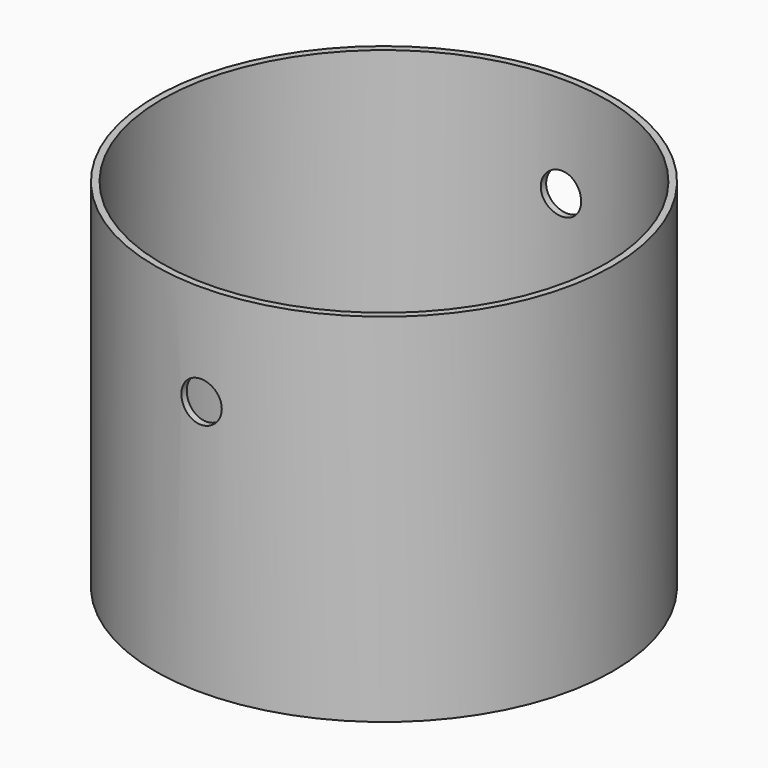
from build123d import *

# Parameters (mm, degrees)
F0_R     = 215.9
F1_DEPTH = 336.55
F2_T     = -6.35
F3_R     = 19.05
F4_DEPTH = 254


with BuildPart() as f1:
    # F0 (on Top) → F1 (new body)
    with BuildSketch(Plane.XY):
        Circle(F0_R)
    extrude(amount=F1_DEPTH)

    # F2
    f2_openings = [f1.faces().sort_by_distance(p)[0] for p in [
        (0, 0, 336.55),
        (0, 0, 0),
    ]]
    offset(amount=F2_T, openings=f2_openings)

    # F3 (on Front) → F4 (cut, symmetric)
    with BuildSketch(Plane.XZ):
        with Locations((0, 241.3)):
            Circle(F3_R)
    extrude(amount=F4_DEPTH, both=True, mode=Mode.SUBTRACT)


solid = f1.part
